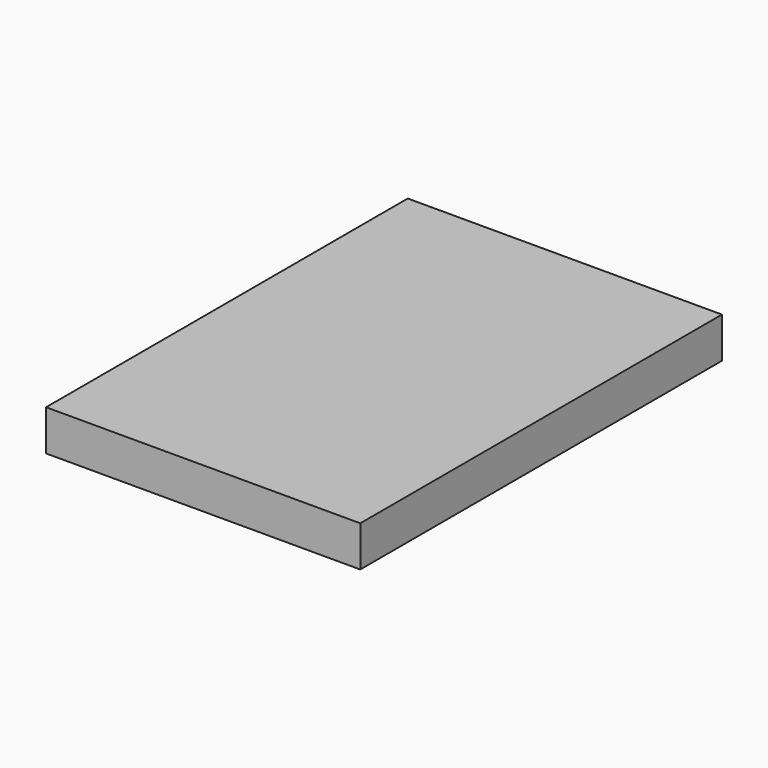
from build123d import *

# Parameters (mm, degrees)
SKETCH_W  = 139
SKETCH_H  = 200
PAD_DEPTH = 18


with BuildPart() as part:
    # Sketch → Pad (new body)
    with BuildSketch(Plane.XY):
        Rectangle(SKETCH_W, SKETCH_H)
    extrude(amount=PAD_DEPTH)


solid = part.part
